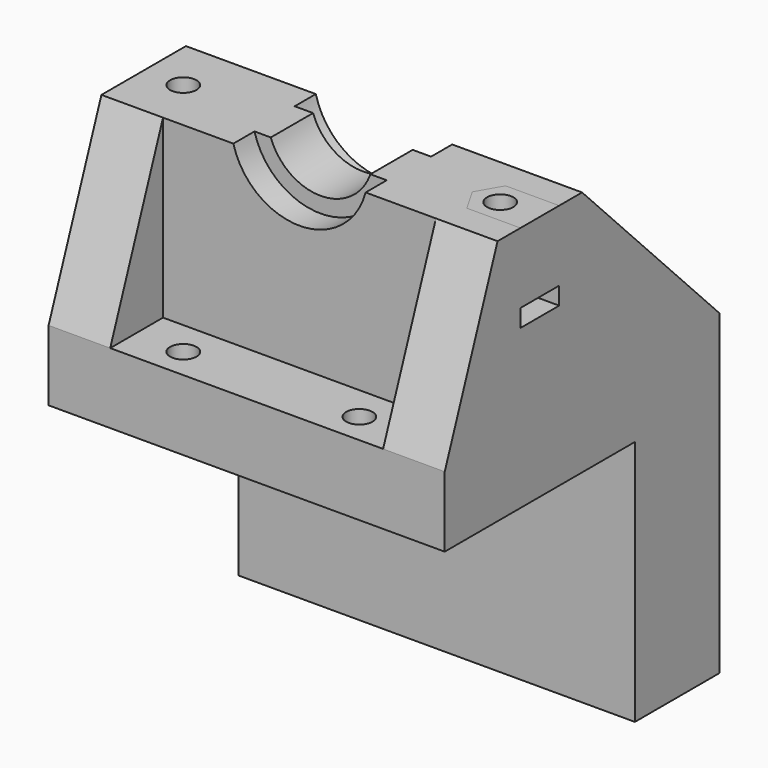
from build123d import *

# Parameters (mm, degrees)
F0_W      = 45
F0_H      = 27
F0_R      = 1.5
F0_H_2    = 12
F1_DEPTH  = 8
F2_DEPTH  = 28
F3_R      = 1.5
F4_DEPTH  = 10
F5_DEPTH  = 8
F6_W      = 31
F6_H      = 12
F7_DEPTH  = 20
F8_SIZE2  = 19.5
F8_SIZE   = 20
F9_SIZE2  = 7.5
F9_SIZE   = 20
F11_DEPTH = 19.501
F12_DEPTH = 3
F13_R     = 7.7732339674
F14_DEPTH = 3
F16_DEPTH = 10
F17_DEPTH = 8
F18_R     = 1.5
F19_DEPTH = 16


with BuildPart() as f1:
    # F0 (on Top) → F1 (new body)
    with BuildSketch(Plane.XY):
        Rectangle(F0_W, F0_H)
        with Locations((-10, -10)):
            Circle(F0_R, mode=Mode.SUBTRACT)
        with Locations((10, -10)):
            Circle(F0_R, mode=Mode.SUBTRACT)
        with Locations((-10, 10)):
            Circle(F0_R, mode=Mode.SUBTRACT)
        with Locations((10, 10)):
            Circle(F0_R, mode=Mode.SUBTRACT)
        with Locations((0, 19.5)):
            Rectangle(F0_W, F0_H_2)
        with Locations((-10, 22)):
            Circle(F0_R, mode=Mode.SUBTRACT)
        with Locations((10, 22)):
            Circle(F0_R, mode=Mode.SUBTRACT)
    extrude(amount=F1_DEPTH)

    # F0 (on Top) → F2 (join)
    with BuildSketch(Plane.XY):
        with Locations((0, 19.5)):
            Rectangle(F0_W, F0_H_2)
        with Locations((-10, 22)):
            Circle(F0_R, mode=Mode.SUBTRACT)
        with Locations((10, 22)):
            Circle(F0_R, mode=Mode.SUBTRACT)
    extrude(amount=-F2_DEPTH)

    # F3 (on face) → F4 (cut)
    with BuildSketch(Plane(origin=(0, 0, -28), x_dir=(1, 0, 0), z_dir=(0, 0, -1))):
        Polygon((-7.25, -20.4122867597), (-10, -18.8245735195), (-12.75, -20.4122867597), (-12.75, -23.5877132403), (-12.75, -25.5), (-7.25, -25.5), (-7.25, -23.5877132403), align=None)
        with Locations((-10, -22)):
            Circle(F3_R, mode=Mode.SUBTRACT)
        Polygon((7.25, -23.5877132403), (7.25, -25.5), (12.75, -25.5), (12.75, -23.5877132403), (12.75, -20.4122867597), (10, -18.8245735195), (7.25, -20.4122867597), align=None)
        with Locations((10, -22)):
            Circle(F3_R, mode=Mode.SUBTRACT)
    extrude(amount=-F4_DEPTH, mode=Mode.SUBTRACT)

    # F3 (on face) → F5 (join)
    with BuildSketch(Plane(origin=(0, 0, -28), x_dir=(1, 0, 0), z_dir=(0, 0, -1))):
        Polygon((7.25, -23.5877132403), (7.25, -25.5), (12.75, -25.5), (12.75, -23.5877132403), (12.75, -20.4122867597), (10, -18.8245735195), (7.25, -20.4122867597), align=None)
        with Locations((10, -22)):
            Circle(F3_R, mode=Mode.SUBTRACT)
        Polygon((-7.25, -20.4122867597), (-10, -18.8245735195), (-12.75, -20.4122867597), (-12.75, -23.5877132403), (-12.75, -25.5), (-7.25, -25.5), (-7.25, -23.5877132403), align=None)
        with Locations((-10, -22)):
            Circle(F3_R, mode=Mode.SUBTRACT)
    extrude(amount=-F5_DEPTH)

    # F6 (on face) → F7 (join)
    with BuildSketch(Plane.XY.offset(8)):
        Polygon((-22.5, 25.5), (-22.5, -13.5), (-15.5, -13.5), (-15.5, -6), (-15.5, 6), (-15.5, 25.5), align=None)
        Rectangle(F6_W, F6_H)
        Polygon((15.5, 6), (15.5, -6), (15.5, -13.5), (22.5, -13.5), (22.5, 25.5), (15.5, 25.5), align=None)
    extrude(amount=F7_DEPTH)

    # F8
    f8_edges = [f1.edges().sort_by_distance(p)[0] for p in [
        (-19, 25.5, 28),
        (19, 25.5, 28),
    ]]
    f8_side = f1.faces().sort_by_distance((0, 25.5, -5.719915))[0]
    chamfer(f8_edges, length=F8_SIZE, length2=F8_SIZE2, reference=f8_side)

    # F9
    f9_edges = [f1.edges().sort_by_distance(p)[0] for p in [
        (19, -13.5, 28),
        (-19, -13.5, 28),
    ]]
    f9_side = f1.faces().sort_by_distance((-21.97, -13.5, 14))[0]
    chamfer(f9_edges, length=F9_SIZE, length2=F9_SIZE2, reference=f9_side)

    # F10 (on face) → F11 (cut, through all)
    with BuildSketch(Plane(origin=(0, 6, 0), x_dir=(-1, 0, 0), z_dir=(0, 1, 0))):
        with BuildLine():
            Line((5.6568542495, 28), (-5.6568542495, 28))
            ThreePointArc((-5.6568542495, 28), (0, 24), (5.6568542495, 28))
        make_face()
    extrude(amount=-F11_DEPTH, mode=Mode.SUBTRACT)

    # F10 (on face) → F12 (cut)
    with BuildSketch(Plane(origin=(0, 6, 0), x_dir=(-1, 0, 0), z_dir=(0, 1, 0))):
        with BuildLine():
            Line((-5.6568542495, 28), (-7.7459666924, 28))
            ThreePointArc((-7.7459666924, 28), (0, 22), (7.7459666924, 28))
            Line((7.7459666924, 28), (5.6568542495, 28))
            ThreePointArc((5.6568542495, 28), (0, 24), (-5.6568542495, 28))
        make_face()
    extrude(amount=-F12_DEPTH, mode=Mode.SUBTRACT)

    # F13 (on face) → F14 (cut)
    with BuildSketch(Plane.XZ.offset(6)):
        with Locations((0, 30)):
            Circle(F13_R)
    extrude(amount=-F14_DEPTH, mode=Mode.SUBTRACT)

    # F15 (on face) → F16 (cut)
    with BuildSketch(Plane.XY.offset(28)):
        Polygon((-19.5877132403, -2.75), (-16.4122867597, -2.75), (-14.8245735195, 0), (-16.4122867597, 2.75), (-19.5877132403, 2.75), (-22.5, 2.75), (-22.5, -2.75), align=None)
        Polygon((14.8245735195, 0), (16.4122867597, -2.75), (19.5877132403, -2.75), (22.5, -2.75), (22.5, 2.75), (19.5877132403, 2.75), (16.4122867597, 2.75), align=None)
    extrude(amount=-F16_DEPTH, mode=Mode.SUBTRACT)

    # F15 (on face) → F17 (join)
    with BuildSketch(Plane.XY.offset(28)):
        Polygon((-19.5877132403, -2.75), (-16.4122867597, -2.75), (-14.8245735195, 0), (-16.4122867597, 2.75), (-19.5877132403, 2.75), (-22.5, 2.75), (-22.5, -2.75), align=None)
        Polygon((14.8245735195, 0), (16.4122867597, -2.75), (19.5877132403, -2.75), (22.5, -2.75), (22.5, 2.75), (19.5877132403, 2.75), (16.4122867597, 2.75), align=None)
    extrude(amount=-F17_DEPTH)

    # F18 (on face) → F19 (cut)
    with BuildSketch(Plane.XY.offset(28)):
        with Locations((-18, 0)):
            Circle(F18_R)
        with Locations((18, 0)):
            Circle(F18_R)
    extrude(amount=-F19_DEPTH, mode=Mode.SUBTRACT)


solid = f1.part
